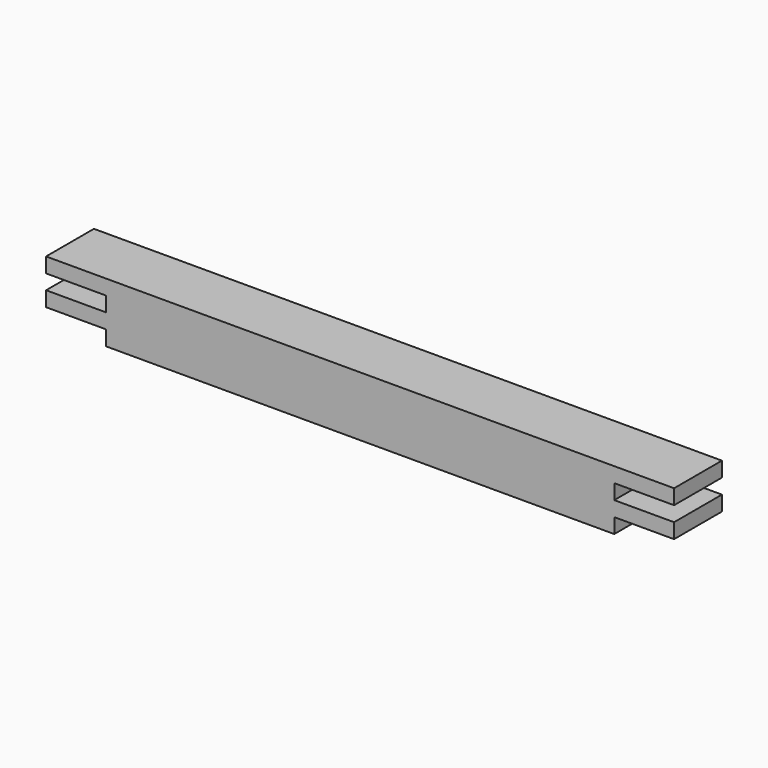
from build123d import *

# Parameters (mm, degrees)
F1_DEPTH = 20


with BuildPart() as f1:
    # F0 (on Front) → F1 (new body, symmetric)
    with BuildSketch(Plane.XZ):
        Polygon((-170, -10), (-170, -20), (170, -20), (170, -10), (210, -10), (210, 0), (170, 0), (170, 10), (210, 10), (210, 20), (-210, 19.90356), (-210, 9.90356), (-170, 9.90356), (-170, 0), (-210, 0), (-210, -10), align=None)
    extrude(amount=F1_DEPTH, both=True)


solid = f1.part
